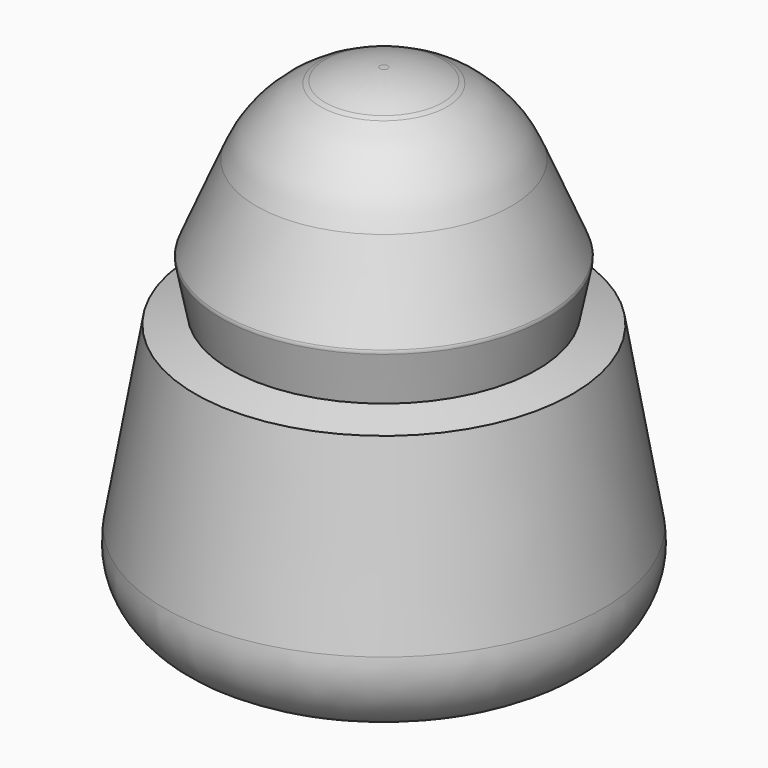
from build123d import *

# Parameters (mm, degrees)
F2_R = 4.486307
F3_R = 0.215658
F4_R = 2.5393


with BuildPart() as f1:
    # F0 (on Front) → F1 (revolve)
    with BuildSketch(Plane.XZ):
        Polygon((-8.137501, 0), (0, 0), (0, 17.0625), (-1.137501, 17.0625), (-3.762501, 15.8375), (-5.6875, 11.2875), (-5.3375, 9.5375), (-6.562501, 9.1875), align=None)
    revolve(axis=Axis((0, 0, 8.53125), (0, 0, -1)))

    # F2
    f2_edges = [f1.edges().sort_by_distance(p)[0] for p in [
        (1.137501, 0, 17.0625),
        (3.762501, 0, 15.8375),
        (-2.450001, 0, 16.45),
    ]]
    fillet(f2_edges, radius=F2_R)

    # F3
    f3_edges = [f1.edges().sort_by_distance(p)[0] for p in [
        (-5.060953, 0, 12.768431),
        (4.434386, 0, 14.249362),
        (5.6875, 0, 11.2875),
    ]]
    fillet(f3_edges, radius=F3_R)

    # F4
    f4_edges = [f1.edges().sort_by_distance(p)[0] for p in [
        (8.137501, 0, 0),
    ]]
    fillet(f4_edges, radius=F4_R)


solid = f1.part
